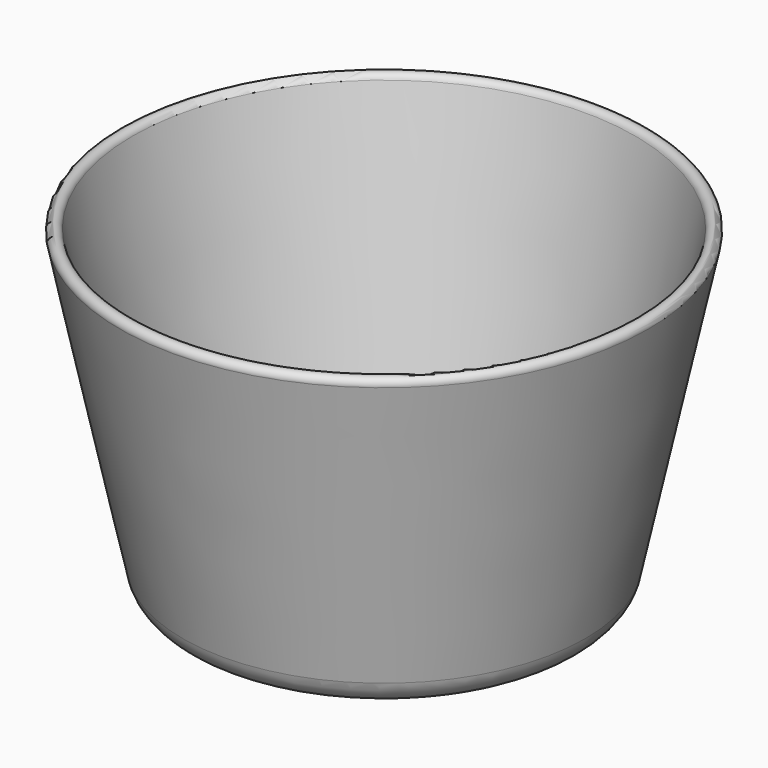
from build123d import *


with BuildPart() as f1:
    # F0 (on Front) → F1 (revolve)
    with BuildSketch(Plane.XZ):
        with BuildLine():
            Line((0, 6), (0, 0))
            Line((0, 0), (25.956506, 0))
            ThreePointArc((25.956506, 0), (29.100559, 1.112208), (30.845876, 3.954028))
            Line((30.845876, 3.954028), (40.437703, 48.790806))
            ThreePointArc((40.437703, 48.790806), (39.669023, 49.977874), (38.481955, 49.209194))
            Line((38.481955, 49.209194), (29.576663, 7.581611))
            ThreePointArc((29.576663, 7.581611), (28.878536, 6.444883), (27.620915, 6))
            Line((27.620915, 6), (0, 6))
        make_face()
    revolve(axis=Axis((0, 0, 3), (0, 0, -1)))


solid = f1.part
